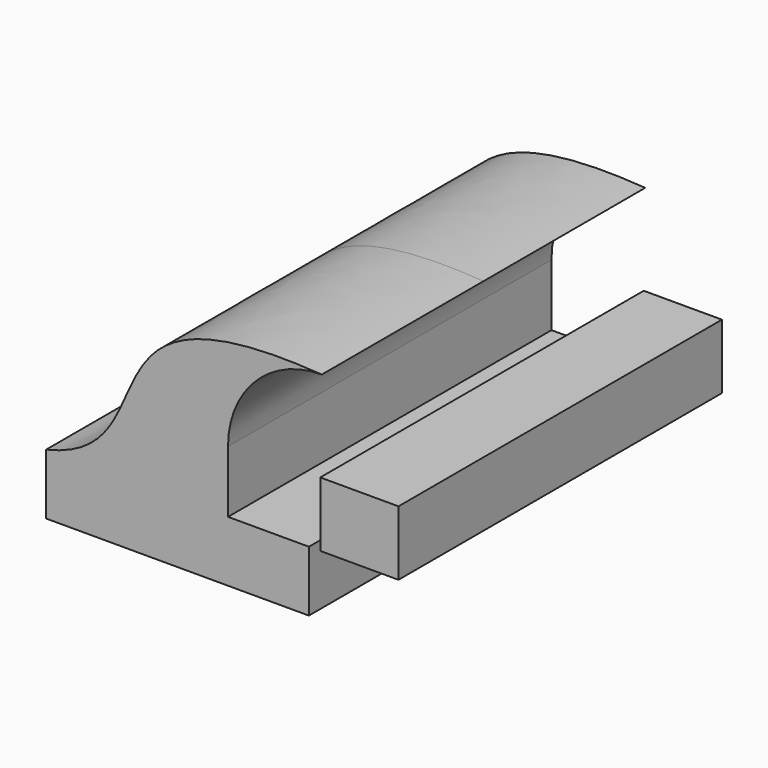
from build123d import *

# Parameters (mm, degrees)
F0_W     = 24.563246
F0_H     = 20.32
F1_DEPTH = 63.5


with BuildPart() as f1:
    # F0 (on Front) → F1 (new body, symmetric)
    with BuildSketch(Plane.XZ):
        Polygon((-41.275, 9.525), (-41.275, -9.525), (41.275, -9.525), (41.275, 9.525), (15.875, 9.525), align=None)
        with BuildLine():
            add(Edge.make_bspline(
                [(-41.275, 9.525), (0, 19.1117), (-35.36275, 64.137571), (45.321393, 58.454964)],
                knots=[0, 0, 0, 0, 99.463946, 99.463946, 99.463946, 99.463946], degree=3))
            Line((-41.275, 9.525), (15.875, 9.525))
            Line((15.875, 9.525), (15.875, 29.008572))
            ThreePointArc((15.875, 29.008572), (24.499649, 49.830315), (45.321393, 58.454964))
        make_face()
        with Locations((57.131452, 19.685)):
            Rectangle(F0_W, F0_H)
    extrude(amount=F1_DEPTH, both=True)


solid = f1.part
